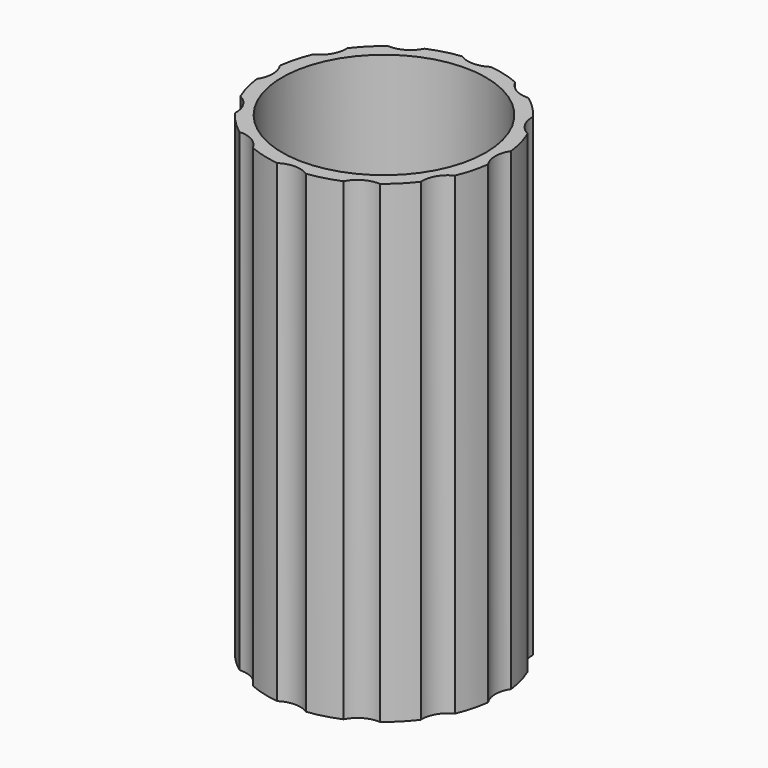
from build123d import *

# Parameters (mm, degrees)
F0_R     = 10.75
F1_DEPTH = 50


with BuildPart() as f1:
    # F0 (on Top) → F1 (new body)
    with BuildSketch(Plane.XY):
        with BuildLine():
            ThreePointArc((1.516779, 12.206121), (0, 11.75), (-1.516779, 12.206121))
            ThreePointArc((-1.516779, 12.206121), (-3.183474, 11.880888), (-4.789491, 11.3292))
            ThreePointArc((-4.789491, 11.3292), (-5.875, 10.175798), (-7.416629, 9.812421))
            ThreePointArc((-7.416629, 9.812421), (-8.697413, 8.697413), (-9.812421, 7.416629))
            ThreePointArc((-9.812421, 7.416629), (-10.175798, 5.875), (-11.3292, 4.789491))
            ThreePointArc((-11.3292, 4.789491), (-11.880888, 3.183474), (-12.206121, 1.516779))
            ThreePointArc((-12.206121, 1.516779), (-11.75, 0), (-12.206121, -1.516779))
            ThreePointArc((-12.206121, -1.516779), (-11.880888, -3.183474), (-11.3292, -4.789491))
            ThreePointArc((-11.3292, -4.789491), (-10.175798, -5.875), (-9.812421, -7.416629))
            ThreePointArc((-9.812421, -7.416629), (-8.697413, -8.697413), (-7.416629, -9.812421))
            ThreePointArc((-7.416629, -9.812421), (-5.875, -10.175798), (-4.789491, -11.3292))
            ThreePointArc((-4.789491, -11.3292), (-3.183474, -11.880888), (-1.516779, -12.206121))
            ThreePointArc((-1.516779, -12.206121), (0, -11.75), (1.516779, -12.206121))
            ThreePointArc((1.516779, -12.206121), (3.183474, -11.880888), (4.789491, -11.3292))
            ThreePointArc((4.789491, -11.3292), (5.875, -10.175798), (7.416629, -9.812421))
            ThreePointArc((7.416629, -9.812421), (8.697413, -8.697413), (9.812421, -7.416629))
            ThreePointArc((9.812421, -7.416629), (10.175798, -5.875), (11.3292, -4.789491))
            ThreePointArc((11.3292, -4.789491), (11.880888, -3.183474), (12.206121, -1.516779))
            ThreePointArc((12.206121, -1.516779), (11.75, 0), (12.206121, 1.516779))
            ThreePointArc((12.206121, 1.516779), (11.880888, 3.183474), (11.3292, 4.789491))
            ThreePointArc((11.3292, 4.789491), (10.175798, 5.875), (9.812421, 7.416629))
            ThreePointArc((9.812421, 7.416629), (8.697413, 8.697413), (7.416629, 9.812421))
            ThreePointArc((7.416629, 9.812421), (5.875, 10.175798), (4.789491, 11.3292))
            ThreePointArc((4.789491, 11.3292), (3.183474, 11.880888), (1.516779, 12.206121))
        make_face()
        Circle(F0_R, mode=Mode.SUBTRACT)
    extrude(amount=F1_DEPTH)


solid = f1.part
